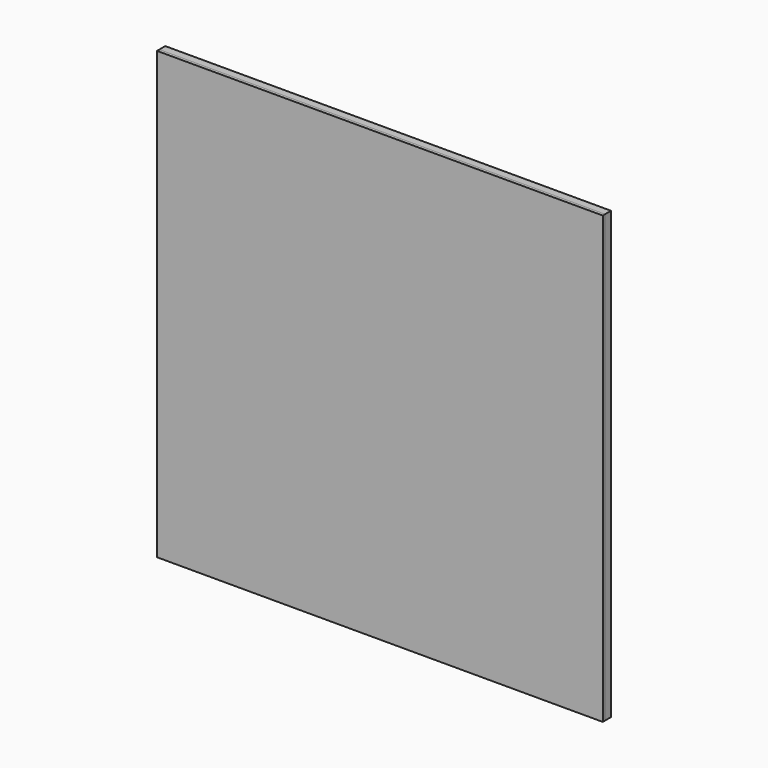
from build123d import *

# Parameters (mm, degrees)
F0_W     = 1524
F0_H     = 1524
F1_DEPTH = 10
F2_W     = 1524
F2_H     = 1524
F3_DEPTH = 25.4
F4_W     = 127
F4_H     = 1473.2
F4_W_2   = 1117.6
F5_DEPTH = 25.4


with BuildPart() as f1:
    # F0 (on Front) → F1 (new body)
    with BuildSketch(Plane.XZ):
        Rectangle(F0_W, F0_H)
    extrude(amount=F1_DEPTH)


with BuildPart() as f3:
    # F2 (on face) → F3 (new body)
    with BuildSketch(Plane(origin=(0, 0, 0), x_dir=(-1, 0, 0), z_dir=(0, 1, 0))):
        Rectangle(F2_W, F2_H)
    extrude(amount=F3_DEPTH)

    # F4 (on face) → F5 (cut)
    with BuildSketch(Plane(origin=(0, 25.4, 0), x_dir=(-1, 0, 0), z_dir=(0, 1, 0))):
        with Locations((-673.1, 0)):
            Rectangle(F4_W, F4_H)
        Rectangle(F4_W_2, F4_H)
        with Locations((673.1, 0)):
            Rectangle(F4_W, F4_H)
    extrude(amount=-F5_DEPTH, mode=Mode.SUBTRACT)


solid = Compound([f1.part, f3.part])
